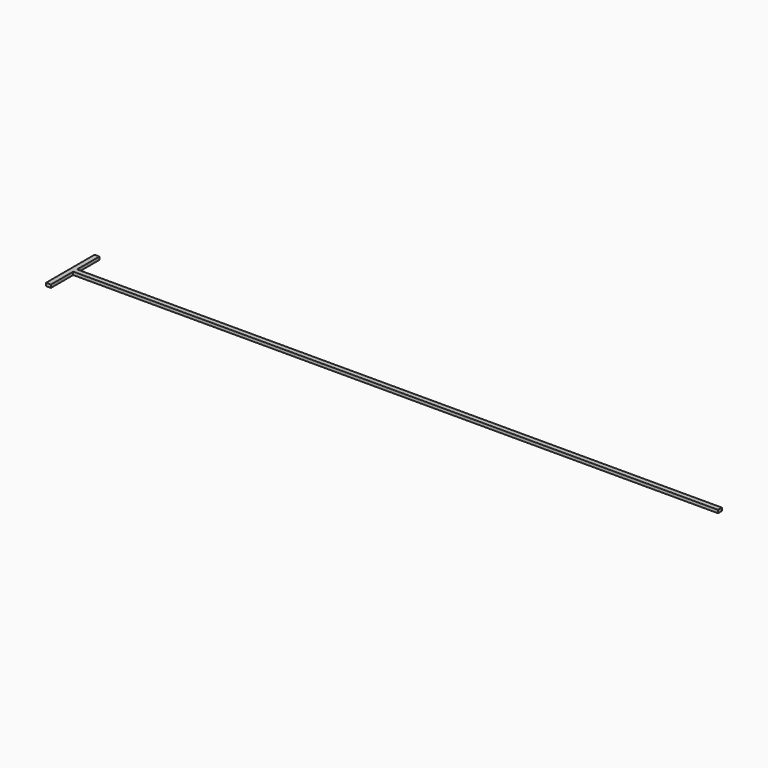
from build123d import *

# Parameters (mm, degrees)
PAD_DEPTH = 0.5


with BuildPart() as part:
    # Sketch → Pad (new body)
    with BuildSketch(Plane.XY):
        Polygon((-7.195606, 5), (-7.195606, 0), (-7.195606, -5), (-6.795606, -5), (-6.395606, -5), (-6.395606, -0.4), (0, -0.4), (100, -0.4), (100, 0.4), (0, 0.4), (-6.395606, 0.4), (-6.395606, 5), (-6.795606, 5), align=None)
    extrude(amount=PAD_DEPTH)


solid = part.part
